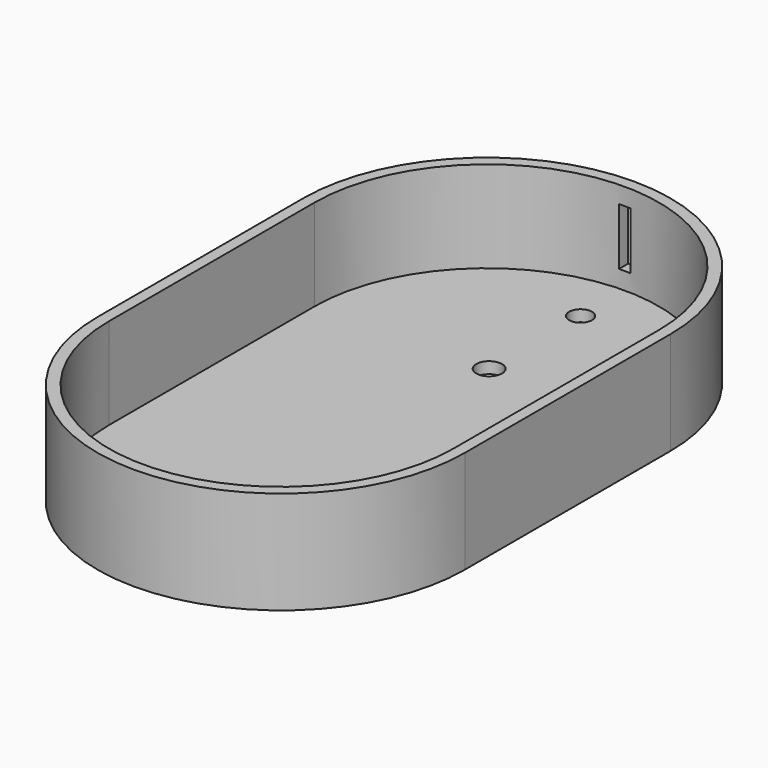
from build123d import *

# Parameters (mm, degrees)
CYLINDER003_R       = 2
CYLINDER003_DEPTH   = 10
BOX_W               = 2
BOX_H               = 10
BOX_DEPTH           = 10
SKETCH003_R         = 2.25
PAD003_DEPTH        = 2
PAD002_DEPTH        = 18
CUT_PLACEMENT_ANGLE = 180


with BuildPart() as cylinder003:
    # Cylinder003 → Cylinder003 (new body)
    with BuildSketch(Plane(origin=(0, 43, -22), x_dir=(1, 0, 0), z_dir=(0, 0, 1))):
        Circle(CYLINDER003_R)
    extrude(amount=CYLINDER003_DEPTH)


with BuildPart() as cube:
    # Box → Box (new body)
    with BuildSketch(Plane(origin=(-1, -58, -13), x_dir=(1, 0, 0), z_dir=(0, 0, 1))):
        with Locations((1, 5)):
            Rectangle(BOX_W, BOX_H)
    extrude(amount=BOX_DEPTH)


with BuildPart() as body003:
    # Sketch003 → Pad003 (new body)
    with BuildSketch(Plane.XY):
        with BuildLine():
            ThreePointArc((30.15435, 22.5), (0, 52.65435), (-30.15435, 22.5))
            Line((-30.15435, 22.5), (-30.15435, -22.5))
            ThreePointArc((-30.15435, -22.5), (0, -52.65435), (30.15435, -22.5))
            Line((30.15435, 22.5), (30.15435, -22.5))
        make_face()
        with Locations((0, 27)):
            Circle(SKETCH003_R, mode=Mode.SUBTRACT)
        with Locations((0, -23)):
            Circle(SKETCH003_R, mode=Mode.SUBTRACT)
    extrude(amount=PAD003_DEPTH)


with BuildPart() as body003_1:
    # Body003 placement: moved
    add(body003.part.moved(Location((0, 0, -18))))


with BuildPart() as f_65_trafficlightcasebottom:
    # Sketch002 → Pad002 (new body)
    with BuildSketch(Plane.XY):
        with BuildLine():
            ThreePointArc((32.15435, 22.5), (0, 54.65435), (-32.15435, 22.5))
            Line((-32.15435, 22.5), (-32.15435, -22.5))
            ThreePointArc((-32.15435, -22.5), (0, -54.65435), (32.15435, -22.5))
            Line((32.15435, 22.5), (32.15435, -22.5))
        make_face()
        with BuildLine():
            ThreePointArc((30.15435, 22.5), (0, 52.65435), (-30.15435, 22.5))
            Line((-30.15435, 22.5), (-30.15435, -22.5))
            ThreePointArc((-30.15435, -22.5), (0, -52.65435), (30.15435, -22.5))
            Line((30.15435, 22.5), (30.15435, -22.5))
        make_face(mode=Mode.SUBTRACT)
    extrude(amount=PAD002_DEPTH)


with BuildPart() as f_65_trafficlightcasebottom_1:
    # Body002 placement: moved
    add(f_65_trafficlightcasebottom.part.moved(Location((0, 0, -18))))

    # Fusion001: union Body003
    add(body003_1.part)

    # Cut: cut Cube
    add(cube.part, mode=Mode.SUBTRACT)


with BuildPart() as f_65_trafficlightcasebottom_2:
    # Cut placement: moved
    add(f_65_trafficlightcasebottom_1.part.rotate(Axis((0, 0, 0), (0, 0, 1)), CUT_PLACEMENT_ANGLE))

    # Cut005: cut Cylinder003
    add(cylinder003.part, mode=Mode.SUBTRACT)


solid = f_65_trafficlightcasebottom_2.part
